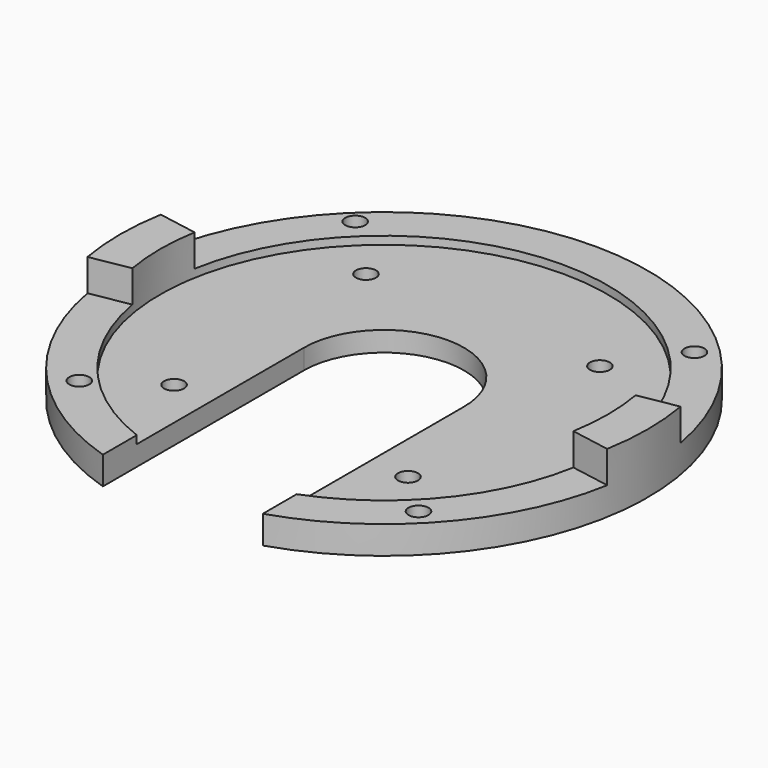
from build123d import *

# Parameters (mm, degrees)
F1_DEPTH = 15
F3_DEPTH = 5
F5_DEPTH = 8
F8_D     = 5
F9_D     = 5


with BuildPart() as f1:
    # F0 (on Top) → F1 (new body)
    with BuildSketch(Plane.XY):
        with BuildLine():
            Line((20, -52.3067873225), (20, -62.8967407741))
            ThreePointArc((20, -62.8967407741), (0, 66), (-20, -62.8967407741))
            Line((-20, -62.8967407741), (-20, -52.3067873225))
            ThreePointArc((-20, -52.3067873225), (0, 56), (20, -52.3067873225))
        make_face()
    extrude(amount=F1_DEPTH)

    # F2 (on Top) → F3 (join)
    with BuildSketch(Plane.XY):
        with BuildLine():
            Line((20, 0), (20, -52.3067873225))
            ThreePointArc((20, -52.3067873225), (0, 56), (-20, -52.3067873225))
            Line((-20, -52.3067873225), (-20, 0))
            ThreePointArc((-20, 0), (0, 20), (20, 0))
        make_face()
    extrude(amount=F3_DEPTH)

    # F4 (on face) → F5 (cut)
    with BuildSketch(Plane.XY.offset(15)):
        with BuildLine():
            ThreePointArc((20, -62.8967407741), (49.6744428377, -43.4562967677), (64.9973116988, -11.460779726))
            Line((64.9973116988, -11.460779726), (55.1492341687, -9.7242979493))
            ThreePointArc((55.1492341687, -9.7242979493), (43.1876018012, -35.6487173775), (20, -52.3067873225))
            Line((20, -52.3067873225), (20, -62.8967407741))
        make_face()
        with BuildLine():
            Line((-64.9973116988, 11.460779726), (-55.1492341687, 9.7242979493))
            ThreePointArc((-55.1492341687, 9.7242979493), (0, 56), (55.1492341687, 9.7242979493))
            Line((55.1492341687, 9.7242979493), (64.9973116988, 11.460779726))
            ThreePointArc((64.9973116988, 11.460779726), (0, 66), (-64.9973116988, 11.460779726))
        make_face()
        with BuildLine():
            ThreePointArc((-20, -62.8967407741), (0, -66), (20, -62.8967407741))
            Line((20, -62.8967407741), (20, -52.3067873225))
            ThreePointArc((20, -52.3067873225), (0, -56), (-20, -52.3067873225))
            Line((-20, -52.3067873225), (-20, -62.8967407741))
        make_face()
        with BuildLine():
            ThreePointArc((-64.9973116988, -11.460779726), (-49.6744428377, -43.4562967677), (-20, -62.8967407741))
            Line((-20, -62.8967407741), (-20, -52.3067873225))
            ThreePointArc((-20, -52.3067873225), (-43.1876018012, -35.6487173775), (-55.1492341687, -9.7242979493))
            Line((-55.1492341687, -9.7242979493), (-64.9973116988, -11.460779726))
        make_face()
    extrude(amount=-F5_DEPTH, mode=Mode.SUBTRACT)

    # F8 (through all)
    with Locations(Plane(origin=(0, 0, 0), x_dir=(1, 0, 0), z_dir=(0, 0, -1))):
        with Locations((43.13, 43.13), (43.1370270186, -43.13), (-43.13, 41.36), (-43.1229729814, -44.9)):
            Hole(F8_D / 2)

    # F9 (through all)
    with Locations(Plane.XY.offset(5)):
        with Locations((30, -30), (30, 30), (-30, 31.8642704598), (-30, -28.1357295402)):
            Hole(F9_D / 2)


solid = f1.part
